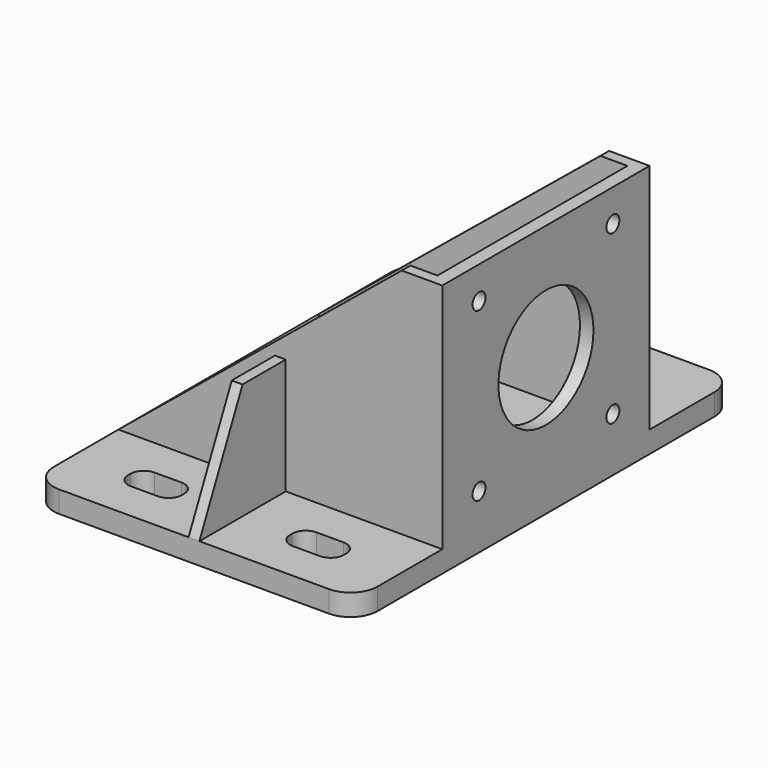
from build123d import *

# Parameters (mm, degrees)
F0_W     = 29
F0_H     = 20
F0_W_2   = 10
F0_H_2   = 5.5
F0_W_3   = 2
F0_W_4   = 57.5
F0_H_3   = 44
F1_DEPTH = 4
F2_DEPTH = 47
F3_R     = 11
F3_R_2   = 1.5
F4_DEPTH = 25
F6_DEPTH = 12.5
F8_DEPTH = 50
F9_R     = 2.5
F10_R    = 5


with BuildPart() as f1:
    # F0 (on Top) → F1 (new body)
    with BuildSketch(Plane.XY):
        with Locations((15.5, -34)):
            Rectangle(F0_W, F0_H)
        with Locations((15, -34)):
            Rectangle(F0_W_2, F0_H_2, mode=Mode.SUBTRACT)
        Polygon((1, -24), (30, -24), (30, 24), (1, 24), (-1, 24), (-30, 24), (-30, 22), (27.5, 22), (27.5, -22), (-30, -22), (-30, -24), (-1, -24), align=None)
        with Locations((0, -34)):
            Rectangle(F0_W_3, F0_H)
        with Locations((15.5, 34)):
            Rectangle(F0_W, F0_H)
        with Locations((15, 34)):
            Rectangle(F0_W_2, F0_H_2, mode=Mode.SUBTRACT)
        with Locations((-15.5, -34)):
            Rectangle(F0_W, F0_H)
        with Locations((-15, -34)):
            Rectangle(F0_W_2, F0_H_2, mode=Mode.SUBTRACT)
        with Locations((0, 34)):
            Rectangle(F0_W_3, F0_H)
        with Locations((-15.5, 34)):
            Rectangle(F0_W, F0_H)
        with Locations((-15, 34)):
            Rectangle(F0_W_2, F0_H_2, mode=Mode.SUBTRACT)
        with Locations((-1.25, 0)):
            Rectangle(F0_W_4, F0_H_3)
    extrude(amount=F1_DEPTH)

    # F0 (on Top) → F2 (join)
    with BuildSketch(Plane.XY):
        Polygon((1, -24), (30, -24), (30, 24), (1, 24), (-1, 24), (-30, 24), (-30, 22), (27.5, 22), (27.5, -22), (-30, -22), (-30, -24), (-1, -24), align=None)
        with Locations((0, 34)):
            Rectangle(F0_W_3, F0_H)
        with Locations((0, -34)):
            Rectangle(F0_W_3, F0_H)
    extrude(amount=F2_DEPTH)

    # F3 (on face) → F4 (cut)
    with BuildSketch(Plane.YZ.offset(30)):
        with Locations((0, 25.5)):
            Circle(F3_R)
        with Locations((-15.5, 41)):
            Circle(F3_R_2)
        with Locations((15.5, 41)):
            Circle(F3_R_2)
        with Locations((15.5, 10)):
            Circle(F3_R_2)
        with Locations((-15.5, 10)):
            Circle(F3_R_2)
    extrude(amount=-F4_DEPTH, mode=Mode.SUBTRACT)

    # F5 (on Right) → F6 (cut, symmetric)
    with BuildSketch(Plane.YZ):
        Polygon((-44, 47), (-44, 4), (-34, 25.5), (-24, 47), align=None)
        Polygon((-24, 47), (-34, 25.5), (-24, 25.5), align=None)
        Polygon((34, 25.5), (44, 4), (44, 47), (24, 47), align=None)
        Polygon((24, 25.5), (34, 25.5), (24, 47), align=None)
    extrude(amount=F6_DEPTH, both=True, mode=Mode.SUBTRACT)

    # F7 (on Front) → F8 (cut, symmetric)
    with BuildSketch(Plane.XZ):
        Polygon((-30, 47), (-30, 4), (22.5, 47), align=None)
    extrude(amount=F8_DEPTH, both=True, mode=Mode.SUBTRACT)

    # F9
    f9_edges = [f1.edges().sort_by_distance(p)[0] for p in [
        (-20, 36.75, 2),
        (-20, 31.25, 2),
        (-10, 36.75, 2),
        (-10, 31.25, 2),
        (20, 31.25, 2),
        (20, -36.75, 2),
        (-10, -36.75, 2),
        (20, -31.25, 2),
        (-10, -31.25, 2),
        (20, 36.75, 2),
        (-20, -36.75, 2),
        (10, -36.75, 2),
        (10, 31.25, 2),
        (-20, -31.25, 2),
        (10, -31.25, 2),
        (10, 36.75, 2),
    ]]
    fillet(f9_edges, radius=F9_R)

    # F10
    f10_edges = [f1.edges().sort_by_distance(p)[0] for p in [
        (-30, -44, 2),
        (30, -44, 2),
        (30, 44, 2),
        (-30, 44, 2),
    ]]
    fillet(f10_edges, radius=F10_R)


solid = f1.part
